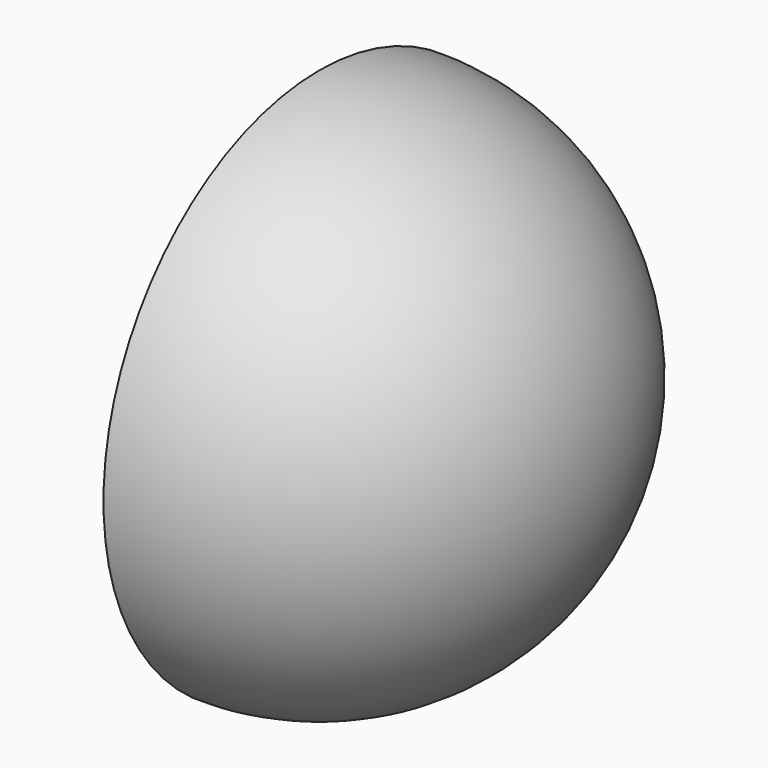
from build123d import *

# Parameters (mm, degrees)
F1_ANGLE_BACK = 90
F1_ANGLE      = 180
F2_T          = -2.54


with BuildPart() as f1:
    # F0 (on Front) → F1 (revolve)
    with BuildSketch(Plane.XZ, mode=Mode.PRIVATE) as f1_sk:
        with BuildLine():
            Line((0, 19.05), (0, -19.05))
            ThreePointArc((0, -19.05), (19.05, 0), (0, 19.05))
        make_face()
    revolve(f1_sk.sketch.rotate(Axis((0, 0, 0), (0, 0, -1)), -F1_ANGLE_BACK), axis=Axis((0, 0, 0), (0, 0, -1)), revolution_arc=F1_ANGLE)

    # F2
    f2_openings = [f1.faces().sort_by_distance(p)[0] for p in [
        (0, 0, 0),
    ]]
    offset(amount=F2_T, openings=f2_openings)


solid = f1.part
